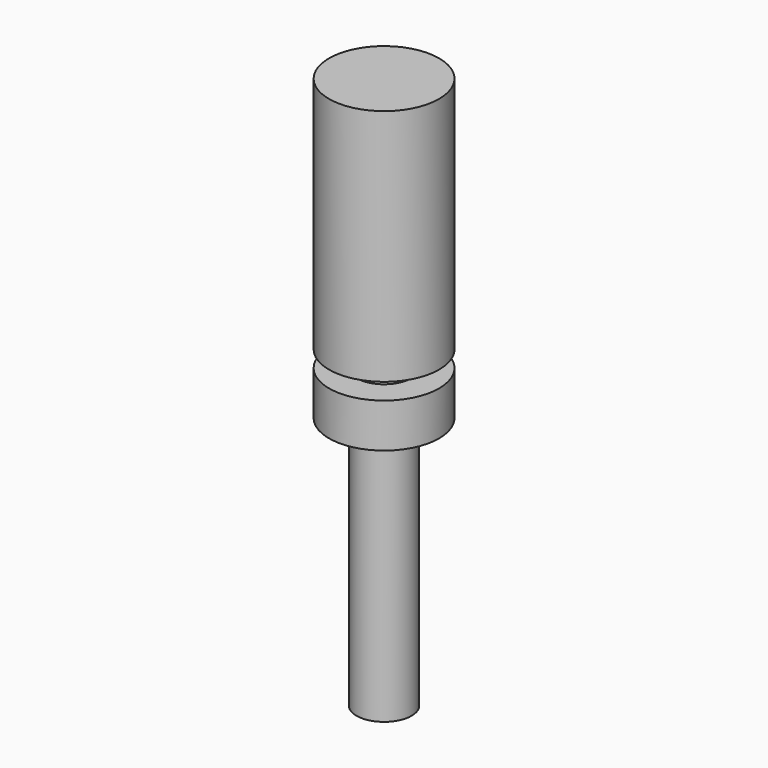
from build123d import *

# Parameters (mm, degrees)
F0_R     = 3.175
F2_DEPTH = 31.75
F1_R     = 6.35
F3_DEPTH = 2.54
F5_R     = 6.35
F6_DEPTH = 27.49417


with BuildPart() as f2:
    # F0 (on Top) → F2 (new body, symmetric)
    with BuildSketch(Plane.XY):
        Circle(F0_R)
    extrude(amount=F2_DEPTH, both=True)

    # F1 (on Top) → F3 (join, symmetric)
    with BuildSketch(Plane.XY):
        Circle(F1_R)
    extrude(amount=F3_DEPTH, both=True)

    # F5 (on offset) → F6 (join)
    with BuildSketch(Plane.XY.offset(4.445)):
        Circle(F5_R)
    extrude(amount=F6_DEPTH)


solid = f2.part
